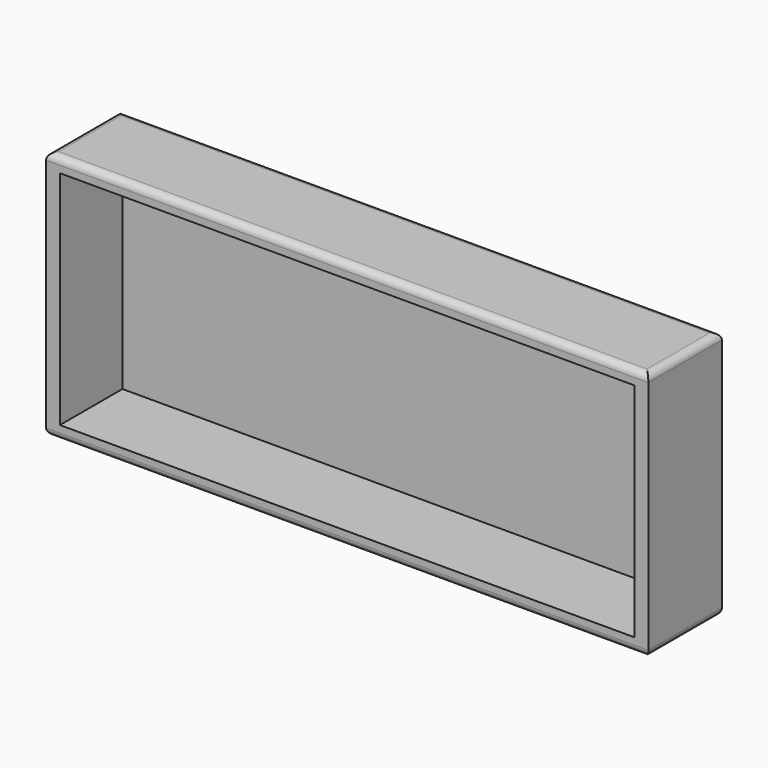
from build123d import *

# Parameters (mm, degrees)
F0_W     = 956
F0_H     = 396
F1_DEPTH = 146
F2_T     = -22
F3_R     = 11
F4_R     = 11


with BuildPart() as f1:
    # F0 (on Front) → F1 (new body)
    with BuildSketch(Plane.XZ):
        Rectangle(F0_W, F0_H)
    extrude(amount=F1_DEPTH)

    # F2
    f2_openings = [f1.faces().sort_by_distance(p)[0] for p in [
        (0, -146, 0),
    ]]
    offset(amount=F2_T, openings=f2_openings)

    # F3
    f3_edges = [f1.edges().sort_by_distance(p)[0] for p in [
        (-478, -73, -198),
        (478, -73, -198),
        (0, 0, -198),
        (0, -146, -198),
    ]]
    fillet(f3_edges, radius=F3_R)

    # F4
    f4_edges = [f1.edges().sort_by_distance(p)[0] for p in [
        (478, -73, 198),
        (-478, -73, 198),
        (0, 0, 198),
        (0, -146, 198),
    ]]
    fillet(f4_edges, radius=F4_R)


solid = f1.part
